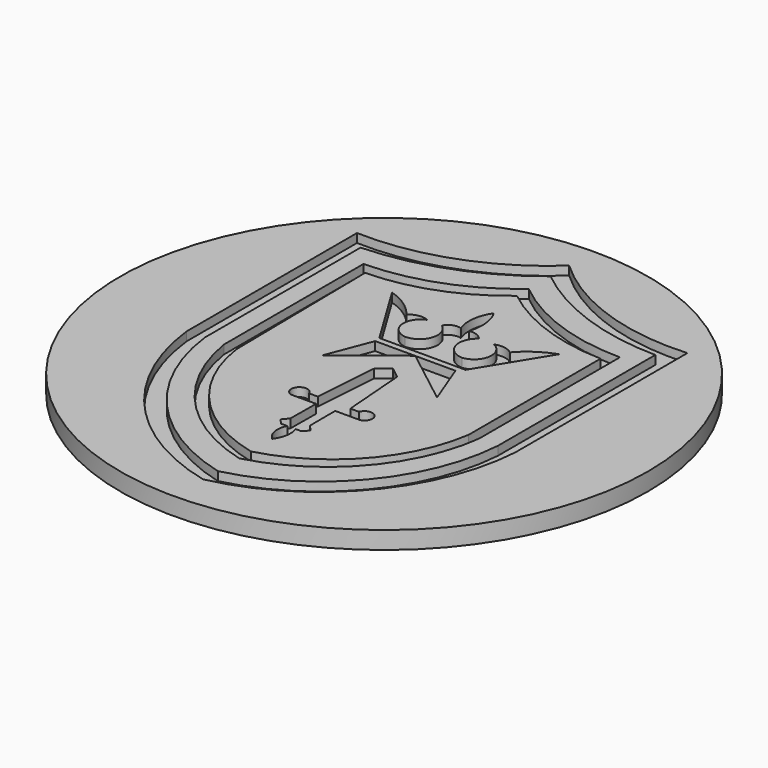
from build123d import *

# Parameters (mm, degrees)
F2_DEPTH  = 31.75
F4_DEPTH  = 11.43
F6_DEPTH  = 8.89
F8_DEPTH  = 8.89
F10_DEPTH = 8.89
F12_DEPTH = 8.89
F13_R     = 304.8
F14_DEPTH = 20.32
F16_DEPTH = 10.16
F18_DEPTH = 10.16
F20_DEPTH = 10.16
F22_DEPTH = 10.16
F24_DEPTH = 10.16
F26_DEPTH = 10.16
F27_R     = 304.8
F28_DEPTH = 38.1


with BuildPart() as f2:
    # F1 (on Top) → F2 (new body)
    with BuildSketch(Plane.XY):
        with BuildLine():
            ThreePointArc((-0.430908, 226.982415), (-79.711548, 181.706479), (-169.227302, 163.75488))
            Line((-169.227302, 163.75488), (-169.227302, -60.819823))
            ThreePointArc((-169.227302, -60.819823), (-113.369381, -185.600772), (2.933838, -257.461429))
            ThreePointArc((2.933838, -257.461429), (118.158195, -186.267639), (169.227302, -60.819823))
            Line((169.227302, -60.819823), (169.227302, 166.105464))
            ThreePointArc((169.227302, 166.105464), (79.251051, 182.199338), (-0.430908, 226.982415))
        make_face()
    extrude(amount=F2_DEPTH)

    # F3 (on face) → F4 (cut)
    with BuildSketch(Plane.XY.offset(31.75)):
        with BuildLine():
            ThreePointArc((-0.374756, 195.493162), (-69.015087, 155.212384), (-147.227302, 140.485346))
            Line((-147.227302, 140.485346), (-147.227302, -60.819823))
            ThreePointArc((-147.227302, -60.819823), (-96.87236, -165.644499), (2.548859, -225.97073))
            ThreePointArc((2.548859, -225.97073), (100.066402, -165.452439), (147.227302, -60.819823))
            Line((147.227302, -60.819823), (147.227302, 142.530277))
            ThreePointArc((147.227302, 142.530277), (68.839046, 156.227594), (-0.374756, 195.493162))
        make_face()
        with BuildLine():
            Line((-132.618561, -60.819823), (-135.227293, 127.792969))
            ThreePointArc((-135.227293, 127.792969), (-63.429471, 141.425292), (-0.343994, 178.316891))
            ThreePointArc((-0.343994, 178.316891), (63.444172, 142.853346), (135.227293, 129.670903))
            Line((135.227293, 129.670903), (135.227293, -60.819823))
            ThreePointArc((135.227293, -60.819823), (90.906741, -154.674215), (2.340942, -208.794981))
            ThreePointArc((2.340942, -208.794981), (-88.121088, -155.768197), (-132.618561, -60.819823))
        make_face(mode=Mode.SUBTRACT)
    extrude(amount=-F4_DEPTH, mode=Mode.SUBTRACT)

    # F5 (on face) → F6 (cut)
    with BuildSketch(Plane.XY.offset(31.75)):
        with BuildLine():
            Line((-92.367917, 113.127932), (-45.701414, 36.461424))
            Line((-45.701414, 36.461424), (53.798582, 36.461424))
            Line((53.798582, 36.461424), (100.798585, 113.127932))
            ThreePointArc((100.798585, 113.127932), (80.575922, 103.064845), (63.631594, 88.127926))
            ThreePointArc((63.631594, 88.127926), (53.573391, 92.641146), (42.631593, 91.29443))
            ThreePointArc((42.631593, 91.29443), (54.451081, 69.882064), (36.776334, 52.976649))
            ThreePointArc((36.776334, 52.976649), (17.177594, 68.050279), (25.131593, 91.460936))
            ThreePointArc((25.131593, 91.460936), (17.890886, 96.996315), (8.798584, 97.627439))
            ThreePointArc((8.798584, 97.627439), (11.159805, 118.634697), (4.798584, 138.794437))
            ThreePointArc((4.798584, 138.794437), (-2.905563, 118.768028), (-0.36792, 97.461425))
            ThreePointArc((-0.36792, 97.461425), (-9.949798, 97.0895), (-17.034912, 90.627931))
            ThreePointArc((-17.034912, 90.627931), (-9.141713, 67.277349), (-29.217625, 52.976649))
            ThreePointArc((-29.217625, 52.976649), (-46.671559, 70.152552), (-34.034912, 91.127932))
            ThreePointArc((-34.034912, 91.127932), (-45.151665, 92.60432), (-55.201415, 87.627932))
            ThreePointArc((-55.201415, 87.627932), (-71.812791, 103.251959), (-92.367917, 113.127932))
        make_face()
    extrude(amount=-F6_DEPTH, mode=Mode.SUBTRACT)

    # F7 (on face) → F8 (cut)
    with BuildSketch(Plane.XY.offset(31.75)):
        Polygon((1.882065, 29.461427), (67.46655, -21.70459), (47.798585, 29.461427), align=None)
    extrude(amount=-F8_DEPTH, mode=Mode.SUBTRACT)

    # F9 (on face) → F10 (cut)
    with BuildSketch(Plane.XY.offset(31.75)):
        Polygon((1.048598, 29.461427), (-44.867922, 29.461427), (-64.53491, -21.70459), align=None)
    extrude(amount=-F10_DEPTH, mode=Mode.SUBTRACT)

    # F11 (on face) → F12 (cut)
    with BuildSketch(Plane.XY.offset(31.75)):
        with BuildLine():
            Line((1.246826, -2.287598), (-12.11792, -13.121582))
            Line((-12.11792, -13.121582), (-17.534912, -87.538578))
            Line((-17.534912, -87.538578), (-27.712647, -87.456539))
            ThreePointArc((-27.712647, -87.456539), (-43.153284, -84.398915), (-38.845949, -99.538572))
            Line((-38.845949, -99.538572), (-9.99292, -99.538572))
            Line((-9.99292, -99.538572), (-10.230225, -136.209473))
            Line((-10.230225, -136.209473), (-16.215088, -143.374518))
            Line((-16.215088, -143.374518), (-10.201416, -149.538577))
            Line((-10.201416, -149.538577), (-3.201416, -149.538577))
            ThreePointArc((-3.201416, -149.538577), (-5.538014, -164.476042), (1.798584, -177.695796))
            ThreePointArc((1.798584, -177.695796), (7.646569, -164.237988), (6.611084, -149.601072))
            Line((6.611084, -149.601072), (11.986084, -149.476081))
            Line((11.986084, -149.476081), (19.017333, -143.569827))
            Line((19.017333, -143.569827), (12.298584, -136.203617))
            Line((12.298584, -136.203617), (12.131592, -99.538572))
            Line((12.131592, -99.538572), (41.065186, -99.538572))
            ThreePointArc((41.065186, -99.538572), (45.517328, -84.304241), (29.96753, -87.48389))
            Line((29.96753, -87.48389), (19.965576, -87.538578))
            Line((19.965576, -87.538578), (14.132569, -12.705078))
            Line((14.132569, -12.705078), (1.246826, -2.287598))
        make_face()
    extrude(amount=-F12_DEPTH, mode=Mode.SUBTRACT)

    # F13 (on face) → F14 (join)
    with BuildSketch(Plane.XY):
        with Locations((1.490798, -15.673031)):
            Circle(F13_R)
    extrude(amount=-F14_DEPTH)

    # F15 (on face) → F16 (cut)
    with BuildSketch(Plane.XY):
        with BuildLine():
            Line((-189.547302, 184.049582), (-189.547302, -62.041552))
            ThreePointArc((-189.547302, -62.041552), (-127.393416, -200.419297), (2.747771, -278.360156))
            ThreePointArc((2.747771, -278.360156), (132.255423, -201.050673), (189.547302, -61.527812))
            Line((189.547302, -61.527812), (189.547302, 187.032623))
            ThreePointArc((189.547302, 187.032623), (87.662532, 200.775305), (-0.410603, 253.808226))
            ThreePointArc((-0.410603, 253.808226), (-88.09635, 200.268094), (-189.547302, 184.049582))
        make_face()
        with BuildLine():
            Line((-169.227302, -60.819823), (-169.227302, 163.75488))
            ThreePointArc((-169.227302, 163.75488), (-79.711548, 181.706479), (-0.430908, 226.982415))
            ThreePointArc((-0.430908, 226.982415), (79.251051, 182.199338), (169.227302, 166.105464))
            Line((169.227302, 166.105464), (169.227302, -60.819823))
            ThreePointArc((169.227302, -60.819823), (118.158195, -186.267639), (2.933838, -257.461429))
            ThreePointArc((2.933838, -257.461429), (-113.369381, -185.600772), (-169.227302, -60.819823))
        make_face(mode=Mode.SUBTRACT)
    extrude(amount=-F16_DEPTH, mode=Mode.SUBTRACT)

    # F17 (on face) → F18 (cut)
    with BuildSketch(Plane.XY):
        with BuildLine():
            ThreePointArc((-0.374756, 195.493162), (-69.015087, 155.212384), (-147.227302, 140.485346))
            Line((-147.227302, 140.485346), (-147.227302, -60.819823))
            ThreePointArc((-147.227302, -60.819823), (-96.87236, -165.644499), (2.548859, -225.97073))
            ThreePointArc((2.548859, -225.97073), (100.066402, -165.452439), (147.227302, -60.819823))
            Line((147.227302, -60.819823), (147.227302, 142.530277))
            ThreePointArc((147.227302, 142.530277), (68.839046, 156.227594), (-0.374756, 195.493162))
        make_face()
        with BuildLine():
            Line((-132.618561, -60.819823), (-135.227293, 127.792969))
            ThreePointArc((-135.227293, 127.792969), (-63.429471, 141.425292), (-0.343994, 178.316891))
            ThreePointArc((-0.343994, 178.316891), (63.444172, 142.853346), (135.227293, 129.670903))
            Line((135.227293, 129.670903), (135.227293, -60.819823))
            ThreePointArc((135.227293, -60.819823), (90.906741, -154.674215), (2.340942, -208.794981))
            ThreePointArc((2.340942, -208.794981), (-88.121088, -155.768197), (-132.618561, -60.819823))
        make_face(mode=Mode.SUBTRACT)
    extrude(amount=-F18_DEPTH, mode=Mode.SUBTRACT)

    # F19 (on face) → F20 (cut)
    with BuildSketch(Plane.XY):
        with BuildLine():
            Line((19.965576, -87.538578), (14.132569, -12.705078))
            Line((14.132569, -12.705078), (1.246826, -2.287598))
            Line((1.246826, -2.287598), (-12.11792, -13.121582))
            Line((-12.11792, -13.121582), (-17.534912, -87.538578))
            Line((-17.534912, -87.538578), (-27.712647, -87.456539))
            ThreePointArc((-27.712647, -87.456539), (-43.153284, -84.398915), (-38.845949, -99.538572))
            Line((-38.845949, -99.538572), (-9.99292, -99.538572))
            Line((-9.99292, -99.538572), (-10.230225, -136.209473))
            Line((-10.230225, -136.209473), (-16.215088, -143.374518))
            Line((-16.215088, -143.374518), (-10.201416, -149.538577))
            Line((-10.201416, -149.538577), (-3.201416, -149.538577))
            ThreePointArc((-3.201416, -149.538577), (-5.538014, -164.476042), (1.798584, -177.695796))
            ThreePointArc((1.798584, -177.695796), (7.646569, -164.237988), (6.611084, -149.601072))
            Line((6.611084, -149.601072), (11.986084, -149.476081))
            Line((11.986084, -149.476081), (19.017333, -143.569827))
            Line((19.017333, -143.569827), (12.298584, -136.203617))
            Line((12.298584, -136.203617), (12.131592, -99.538572))
            Line((12.131592, -99.538572), (41.065186, -99.538572))
            ThreePointArc((41.065186, -99.538572), (45.517328, -84.304241), (29.96753, -87.48389))
            Line((29.96753, -87.48389), (19.965576, -87.538578))
        make_face()
    extrude(amount=-F20_DEPTH, mode=Mode.SUBTRACT)

    # F21 (on face) → F22 (cut)
    with BuildSketch(Plane.XY):
        Polygon((1.048598, 29.461427), (-44.867922, 29.461427), (-64.53491, -21.70459), align=None)
    extrude(amount=-F22_DEPTH, mode=Mode.SUBTRACT)

    # F23 (on face) → F24 (cut)
    with BuildSketch(Plane.XY):
        Polygon((47.798585, 29.461427), (1.465576, 29.461427), (67.46655, -21.70459), align=None)
    extrude(amount=-F24_DEPTH, mode=Mode.SUBTRACT)

    # F25 (on face) → F26 (cut)
    with BuildSketch(Plane.XY):
        with BuildLine():
            ThreePointArc((-34.034912, 91.127932), (-45.151665, 92.60432), (-55.201415, 87.627932))
            ThreePointArc((-55.201415, 87.627932), (-71.812791, 103.251959), (-92.367917, 113.127932))
            Line((-92.367917, 113.127932), (-45.701414, 36.461424))
            Line((-45.701414, 36.461424), (53.798582, 36.461424))
            Line((53.798582, 36.461424), (100.798585, 113.127932))
            ThreePointArc((100.798585, 113.127932), (80.575922, 103.064845), (63.631594, 88.127926))
            ThreePointArc((63.631594, 88.127926), (53.573391, 92.641146), (42.631593, 91.29443))
            ThreePointArc((42.631593, 91.29443), (54.451081, 69.882064), (36.776334, 52.976649))
            ThreePointArc((36.776334, 52.976649), (17.177594, 68.050279), (25.131593, 91.460936))
            ThreePointArc((25.131593, 91.460936), (17.890886, 96.996315), (8.798584, 97.627439))
            ThreePointArc((8.798584, 97.627439), (11.159805, 118.634697), (4.798584, 138.794437))
            ThreePointArc((4.798584, 138.794437), (-2.905563, 118.768028), (-0.36792, 97.461425))
            ThreePointArc((-0.36792, 97.461425), (-9.949798, 97.0895), (-17.034912, 90.627931))
            ThreePointArc((-17.034912, 90.627931), (-9.141713, 67.277349), (-29.217625, 52.976649))
            ThreePointArc((-29.217625, 52.976649), (-46.671559, 70.152552), (-34.034912, 91.127932))
        make_face()
    extrude(amount=-F26_DEPTH, mode=Mode.SUBTRACT)

    # F27 (on face) → F28 (cut)
    with BuildSketch(Plane.XY):
        with Locations((1.490798, -15.673031)):
            Circle(F27_R)
    extrude(amount=F28_DEPTH, mode=Mode.SUBTRACT)


solid = f2.part
